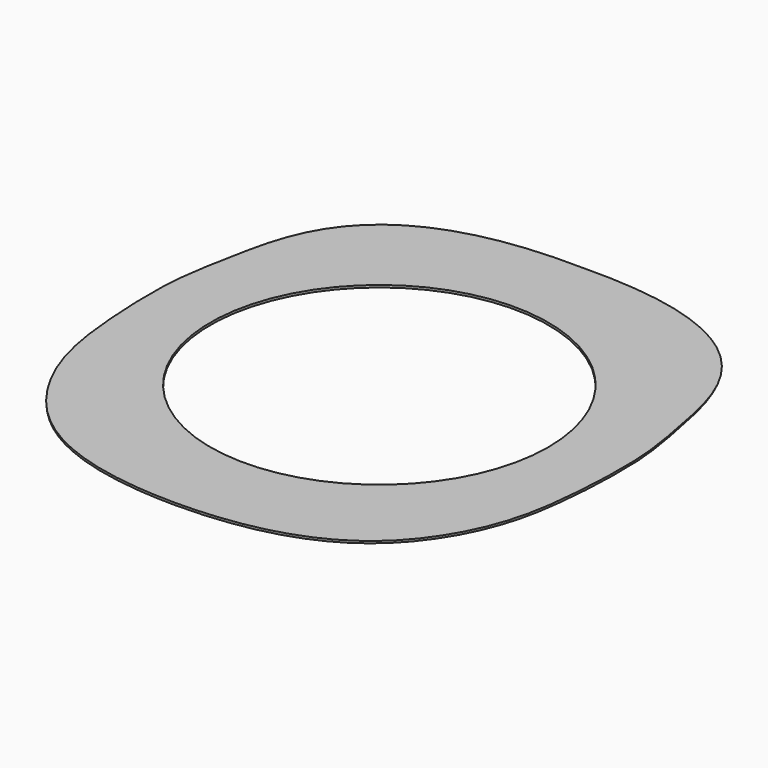
from build123d import *

# Parameters (mm, degrees)
CYLINDER_R     = 30
CYLINDER_DEPTH = 10
BOX001_W       = 100
BOX001_H       = 100
BOX001_DEPTH   = 0.4


with BuildPart() as cylinder:
    # Cylinder → Cylinder (new body)
    with BuildSketch(Plane(origin=(0, 8, 78.2), x_dir=(1, 0, 0), z_dir=(0, 0, 1))):
        Circle(CYLINDER_R)
    extrude(amount=CYLINDER_DEPTH)


with BuildPart() as cube001:
    # Box001 → Box001 (new body)
    with BuildSketch(Plane(origin=(-53, -45.8, 79.6), x_dir=(1, 0, 0), z_dir=(0, 0, 1))):
        with Locations((50, 50)):
            Rectangle(BOX001_W, BOX001_H)
    extrude(amount=BOX001_DEPTH)


with BuildPart() as body003:
    # Sketch009 → AdditiveLoft003 section 0
    with BuildSketch(Plane.XY.offset(41)):
        with BuildLine():
            add(Edge.make_bspline(
                [(0, 36.497025), (26.576986, 35.262943), (47.796365, 0), (27.047079, -34.785005), (0, -35.8137)],
                knots=[0, 0, 0, 0, 0.5, 1, 1, 1, 1], degree=3))
            add(Edge.make_bspline(
                [(0, 36.497025), (-26.576986, 35.262943), (-47.796365, 0), (-27.047079, -34.785005), (0, -35.8137)],
                knots=[0, 0, 0, 0, 0.5, 1, 1, 1, 1], degree=3))
        make_face()
    # Sketch008 → AdditiveLoft003 section 1
    with BuildSketch(Plane.XY):
        with BuildLine():
            add(Edge.make_bspline(
                [(0, 32.9051), (28.479158, 34.285235), (40.246082, 0), (29.153858, -32.29409), (0, -31.3846)],
                knots=[0, 0, 0, 0, 0.5, 1, 1, 1, 1], degree=3))
            add(Edge.make_bspline(
                [(0, 32.9051), (-28.479158, 34.285235), (-40.246082, 0), (-29.153858, -32.29409), (0, -31.3846)],
                knots=[0, 0, 0, 0, 0.5, 1, 1, 1, 1], degree=3))
        make_face()
    loft(ruled=True)


with BuildPart() as cut:
    # Sketch007 → AdditiveLoft002 section 0
    with BuildSketch(Plane.XY.offset(80)):
        with BuildLine():
            add(Edge.make_bspline(
                [(0, 53.061848), (33.768852, 53.748959), (41.60467, 20.311575), (41.974278, 11.194203), (41.83811, 0), (38.792742, -22.041952), (21.032879, -37.277655), (0, -37.349277)],
                knots=[0, 0, 0, 0, 0.2, 0.4, 0.6, 0.8, 1, 1, 1, 1], degree=3))
            add(Edge.make_bspline(
                [(0, 53.061848), (-33.768852, 53.748959), (-41.60467, 20.311575), (-41.974278, 11.194203), (-41.83811, 0), (-38.792742, -22.041952), (-21.032879, -37.277655), (0, -37.349277)],
                knots=[0, 0, 0, 0, 0.2, 0.4, 0.6, 0.8, 1, 1, 1, 1], degree=3))
        make_face()
    # Sketch006 → AdditiveLoft002 section 1
    with BuildSketch(Plane.XY.offset(41)):
        with BuildLine():
            add(Edge.make_bspline(
                [(0, 36.497025), (26.576986, 35.262943), (47.796365, 0), (27.047079, -34.785005), (0, -35.8137)],
                knots=[0, 0, 0, 0, 0.5, 1, 1, 1, 1], degree=3))
            add(Edge.make_bspline(
                [(0, 36.497025), (-26.576986, 35.262943), (-47.796365, 0), (-27.047079, -34.785005), (0, -35.8137)],
                knots=[0, 0, 0, 0, 0.5, 1, 1, 1, 1], degree=3))
        make_face()
    loft(ruled=True)

    # Fusion001: union Body003
    add(body003.part)

    # Common: intersect Cube001
    add(cube001.part, mode=Mode.INTERSECT)

    # Cut: cut Cylinder
    add(cylinder.part, mode=Mode.SUBTRACT)


solid = cut.part
